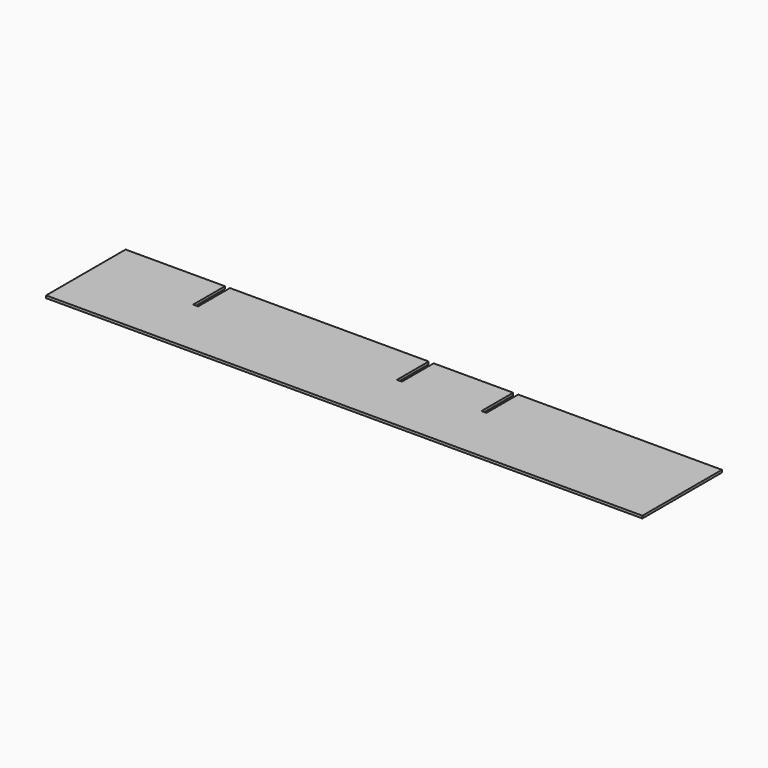
from build123d import *

# Parameters (mm, degrees)
F1_DEPTH = 6.35


with BuildPart() as f1:
    # F0 (on Top) → F1 (new body)
    with BuildSketch(Plane.XY):
        Polygon((-508, 127), (-762, 127), (-762, -127), (762, -127), (762, 127), (241.3, 127), (241.3, 25.4), (228.6, 25.4), (228.6, 127), (25.4, 127), (25.4, 25.4), (12.7, 25.4), (12.7, 127), (-495.3, 127), (-495.3, 25.4), (-508, 25.4), align=None)
    extrude(amount=F1_DEPTH)


solid = f1.part
